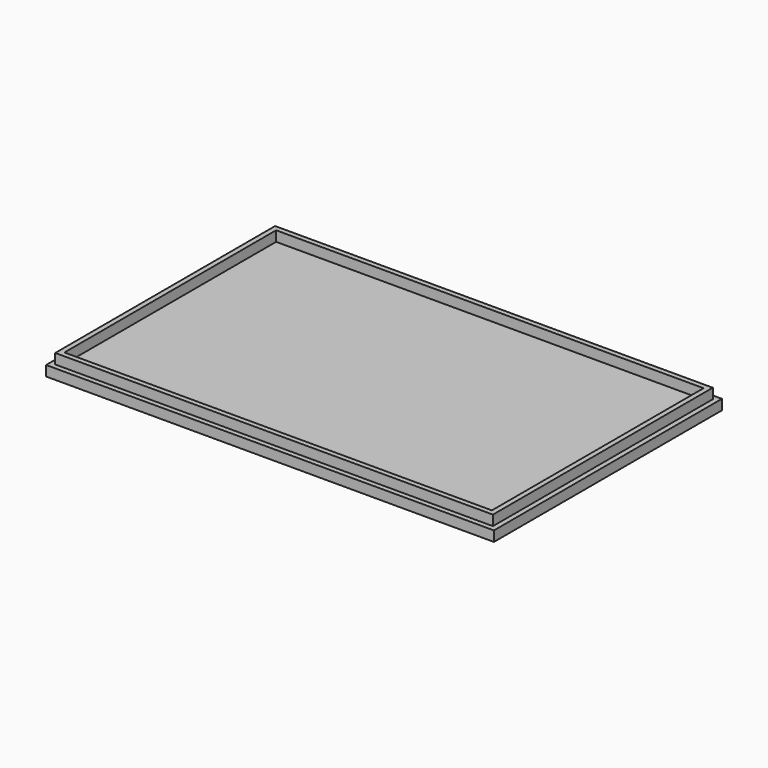
from build123d import *

# Parameters (mm, degrees)
F0_W     = 558.8
F0_H     = 355.6
F1_DEPTH = 25.4
F2_W     = 533.4
F2_H     = 330.2
F3_DEPTH = 12.7
F4_W     = 558.8
F4_H     = 355.6
F4_W_2   = 546.1
F4_H_2   = 342.9
F5_DEPTH = 12.7


with BuildPart() as f1:
    # F0 (on Top) → F1 (new body)
    with BuildSketch(Plane.XY):
        with Locations((12.479961, 0.865745)):
            Rectangle(F0_W, F0_H)
    extrude(amount=F1_DEPTH)

    # F2 (on face) → F3 (cut)
    with BuildSketch(Plane.XY.offset(25.4)):
        with Locations((12.479961, 0.865745)):
            Rectangle(F2_W, F2_H)
    extrude(amount=-F3_DEPTH, mode=Mode.SUBTRACT)

    # F4 (on face) → F5 (cut)
    with BuildSketch(Plane.XY.offset(25.4)):
        with Locations((12.479961, 0.865745)):
            Rectangle(F4_W, F4_H)
        with Locations((12.479961, 0.865745)):
            Rectangle(F4_W_2, F4_H_2, mode=Mode.SUBTRACT)
    extrude(amount=-F5_DEPTH, mode=Mode.SUBTRACT)


solid = f1.part
